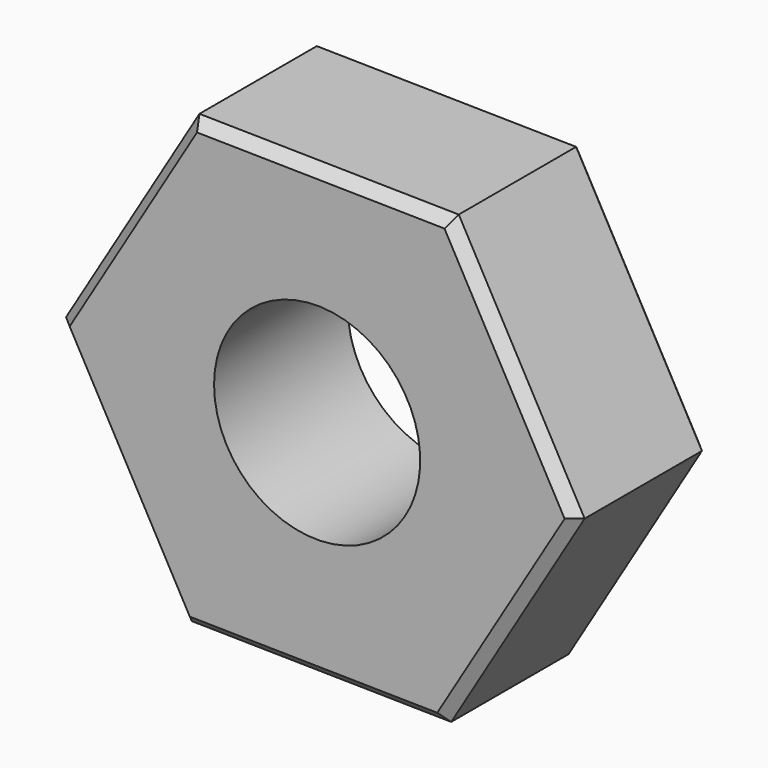
from build123d import *

# Parameters (mm, degrees)
F1_DEPTH = 4.1402
F3_D     = 5.1054
F4_SIZE  = 0.254


with BuildPart() as f1:
    # F0 (on Front) → F1 (new body)
    with BuildSketch(Plane.XZ):
        Polygon((-3.1175517919, 5.6158314171), (-6.4222285665, 0.1080366591), (-3.3046767746, -5.5077947579), (3.1175517919, -5.6158314171), (6.4222285665, -0.1080366591), (3.3046767746, 5.5077947579), align=None)
    extrude(amount=F1_DEPTH)

    # F3 (through all)
    with Locations(Plane.XZ.offset(4.1402)):
        with Locations((0, 0)):
            Hole(F3_D / 2)

    # F4
    f4_edges = [f1.edges().sort_by_distance(p)[0] for p in [
        (-4.76989, -4.1402, 2.861934),
        (0.093562, -4.1402, 5.561813),
        (4.863453, -4.1402, 2.699879),
        (4.76989, -4.1402, -2.861934),
        (-0.093562, -4.1402, -5.561813),
        (-4.863453, -4.1402, -2.699879),
        (-4.863453, 0, -2.699879),
        (-4.76989, 0, 2.861934),
        (0.093562, 0, 5.561813),
        (4.863453, 0, 2.699879),
        (4.76989, 0, -2.861934),
        (-0.093562, 0, -5.561813),
    ]]
    chamfer(f4_edges, length=F4_SIZE)


solid = f1.part
